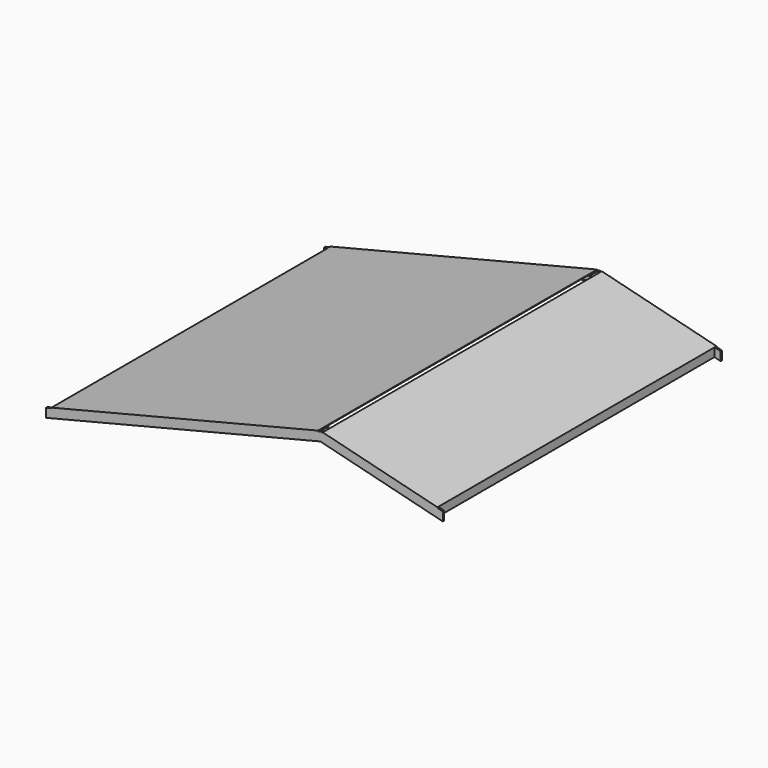
from build123d import *

# Parameters (mm, degrees)
F1_DEPTH = 38.1
F2_W     = 19.05
F2_H     = 191.5869921367
F2_H_2   = 191.574201817
F3_DEPTH = 190.5
F4_W     = 19.05
F4_H     = 191.5869921367
F4_H_2   = 191.574201817
F5_DEPTH = 3657.6
F6_W     = 2634.2005317061
F6_H     = 3886.2
F7_DEPTH = 12.7
F8_W     = 6120.442990107
F8_H     = 3886.2
F9_DEPTH = 12.7


with BuildPart() as f1:
    # F0 (on Front) → F1 (new body)
    with BuildSketch(Plane.XZ):
        Polygon((0, 196.362868177), (-6111.1582563486, -1327.320014937), (-6111.1582563486, -1523.682883114), (-5349.1582563486, -1333.6949449475), (-5209.4582563486, -1298.8638229503), (0, 0), (1826.3417436514, -456.5839637455), (1966.0417436514, -491.5088511369), (2728.0417436514, -682.0082369082), (2728.0417436514, -485.6453687311), align=None)
    extrude(amount=F1_DEPTH)

    # F2 (on face) → F3 (join)
    with BuildSketch(Plane(origin=(0, 0, 0), x_dir=(-1, 0, 0), z_dir=(0, 1, 0))):
        with Locations((5968.2832563486, -1389.8917994124)):
            Rectangle(F2_W, F2_H)
        with Locations((-2585.1667436514, -548.1212588454)):
            Rectangle(F2_W, F2_H_2)
        Polygon((-2539.559632964, -438.5249929899), (-2576.52206923, -447.7655722619), (-2542.6399452326, -583.2945052372), (-2505.6775089666, -574.0539259652), align=None)
        Polygon((-1951.2409649767, -435.4452368849), (-1914.2785287107, -426.2046576128), (-1948.1606527082, -290.6757246375), (-1985.1230889741, -299.9163039096), align=None)
        Polygon((-1359.8419847209, -287.5959685325), (-1322.8795484549, -278.3553892605), (-1356.7616724523, -142.8264562852), (-1393.7241087183, -152.0670355572), align=None)
        Polygon((-768.443004465, -139.7467001801), (-731.480568199, -130.5061209081), (-765.3626921964, 5.0228120672), (-802.3251284624, -4.2177672048), align=None)
        Polygon((-177.0440242092, 8.1025681722), (-140.0815879432, 17.3431474443), (-173.9637119406, 152.8720804196), (-210.9261482066, 143.6315011475), align=None)
        Polygon((5959.6328702282, -1289.5404930356), (5922.6646030571, -1280.3232688132), (5888.8681142419, -1415.873581774), (5925.836381413, -1425.0908059963), align=None)
        Polygon((5334.3441066751, -1277.6152184388), (5368.1405954904, -1142.064905478), (5331.1723283193, -1132.8476812557), (5297.375839504, -1268.3979942164), align=None)
        Polygon((4742.8518319373, -1130.1396308812), (4776.6483207526, -994.5893179205), (4739.6800535814, -985.3720936981), (4705.8835647662, -1120.9224066589), align=None)
        Polygon((4151.3595571994, -982.6640433237), (4185.1560460147, -847.1137303629), (4148.1877788436, -837.8965061406), (4114.3912900283, -973.4468191013), align=None)
        Polygon((3559.8672824616, -835.1884557661), (3593.6637712769, -699.6381428053), (3556.6955041057, -690.420918583), (3522.8990152905, -825.9712315438), align=None)
        Polygon((2968.3750077237, -687.7128682085), (3002.171496539, -552.1625552478), (2965.2032293679, -542.9453310254), (2931.4067405526, -678.4956439862), align=None)
        Polygon((2376.8827329859, -540.237280651), (2410.6792218012, -404.6869676902), (2373.7109546301, -395.4697434679), (2339.9144658148, -531.0200564286), align=None)
        Polygon((1785.390458248, -392.7616930934), (1819.1869470633, -257.2113801327), (1782.2186798922, -247.9941559103), (1748.4221910769, -383.5444688711), align=None)
        Polygon((1193.8981835102, -245.2861055359), (1227.6946723255, -109.7357925751), (1190.7264051544, -100.5185683528), (1156.9299163391, -236.0688813135), align=None)
        Polygon((602.4059087723, -97.8105179783), (636.2023975876, 37.7397949824), (599.2341304165, 46.9570192048), (565.4376416012, -88.593293756), align=None)
        Polygon((10.9136340345, 49.6650695792), (44.7101228498, 185.21538254), (7.7418556787, 194.4326067624), (-26.0546331366, 58.8822938016), align=None)
    extrude(amount=F3_DEPTH)

    # F4 (on face) → F5 (join)
    with BuildSketch(Plane(origin=(0, 190.5, 0), x_dir=(-1, 0, 0), z_dir=(0, 1, 0))):
        with Locations((5968.2832563486, -1389.8917994124)):
            Rectangle(F4_W, F4_H)
        with Locations((-2585.1667436514, -548.1212588454)):
            Rectangle(F4_W, F4_H_2)
    extrude(amount=F5_DEPTH)

    # F6 (on face) → F7 (join)
    with BuildSketch(Plane(origin=(46.2028963601, 0, 184.81218133), x_dir=(0.9701426841, 0, -0.242534889), z_dir=(0.242534889, 0, 0.9701426841))):
        with Locations((1320.2754194102, 1905)):
            Rectangle(F6_W, F6_H)
    extrude(amount=F7_DEPTH)

    # F8 (on face) → F9 (join)
    with BuildSketch(Plane(origin=(-46.0933912981, 0, 184.8704949804), x_dir=(0.9702957263, 0, 0.2419218956), z_dir=(-0.2419218956, 0, 0.9702957263))):
        with Locations((-3063.5170177587, 1905)):
            Rectangle(F8_W, F8_H)
    extrude(amount=F9_DEPTH)

    # F10: F1 across face


with BuildPart() as f1_1:
    add(f1.part)
    add(f1.part.mirror(Plane(origin=(1328.5985321051, 3848.1, -129.2402649607), x_dir=(-1, 0, 0), z_dir=(0, 1, 0))))


solid = f1_1.part
